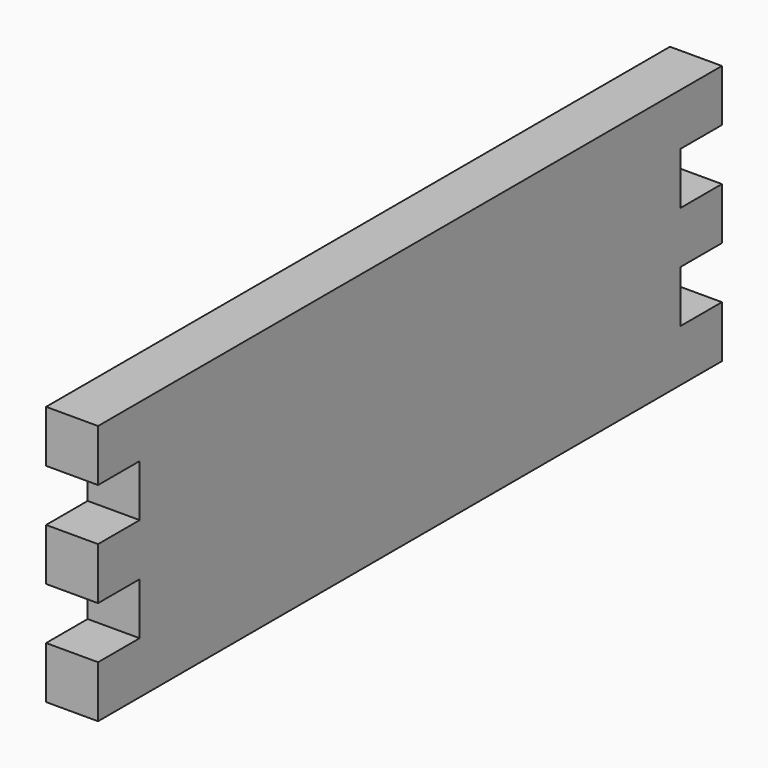
from build123d import *

# Parameters (mm, degrees)
F0_W     = 300
F0_H     = 100
F1_DEPTH = 20
F2_W     = 20
F2_H     = 20
F3_DEPTH = 20
F4_W     = 280
F4_H     = 10
F5_DEPTH = 10


with BuildPart() as f1:
    # F0 (on Right) → F1 (new body)
    with BuildSketch(Plane.YZ):
        Rectangle(F0_W, F0_H)
    extrude(amount=F1_DEPTH)

    # F2 (on face) → F3 (cut, through all)
    with BuildSketch(Plane(origin=(0, 0, 0), x_dir=(0, -1, 0), z_dir=(-1, 0, 0))):
        with Locations((140, -20)):
            Rectangle(F2_W, F2_H)
        with Locations((-140, -20)):
            Rectangle(F2_W, F2_H)
        with Locations((140, 20)):
            Rectangle(F2_W, F2_H)
        with Locations((-140, 20)):
            Rectangle(F2_W, F2_H)
    extrude(amount=-F3_DEPTH, mode=Mode.SUBTRACT)

    # F4 (on face) → F5 (cut)
    with BuildSketch(Plane(origin=(0, 0, 0), x_dir=(0, -1, 0), z_dir=(-1, 0, 0))):
        with Locations((0, 35)):
            Rectangle(F4_W, F4_H)
    extrude(amount=-F5_DEPTH, mode=Mode.SUBTRACT)


solid = f1.part
